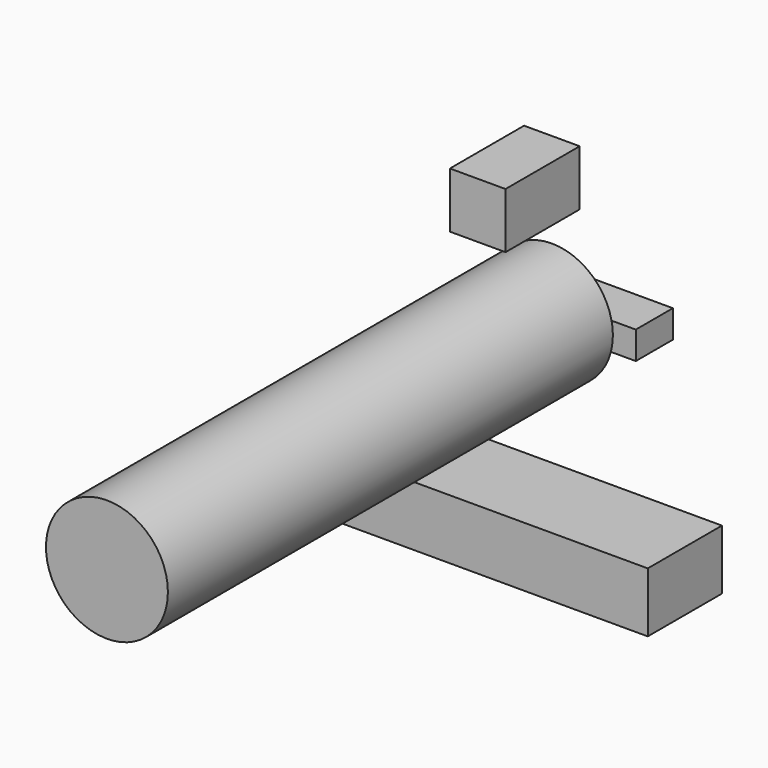
from build123d import *

# Parameters (mm, degrees)
F0_R      = 16.70604
F1_DEPTH  = 127
F0_W      = 83.526968
F0_H      = 16.412316
F0_W_2    = 15.24
F0_H_2    = 15.24
F1_FACE_R = 16.70604
F2_DEPTH  = 25.4
F3_W      = 22.999221
F3_H      = 7.601437
F4_DEPTH  = 12.7


with BuildPart() as f1:
    # F0 (on Front) → F1 (new body)
    with BuildSketch(Plane.XZ):
        Circle(F0_R)
    extrude(amount=F1_DEPTH)

    # F0 (on Front) + F1_face (on face) → F2 (join)
    with BuildSketch(Plane.XZ):
        Circle(F0_R)
        with Locations((4.835775, -44.401174)):
            Rectangle(F0_W, F0_H)
        with Locations((0, 35.022711)):
            Rectangle(F0_W_2, F0_H_2)
    with BuildSketch(Plane.XZ.offset(127)):
        Circle(F1_FACE_R)
    extrude(amount=F2_DEPTH)

    # F3 (on Front) → F4 (join)
    with BuildSketch(Plane.XZ):
        with Locations((11.49961, -0.389817)):
            Rectangle(F3_W, F3_H)
    extrude(amount=-F4_DEPTH)


solid = f1.part
